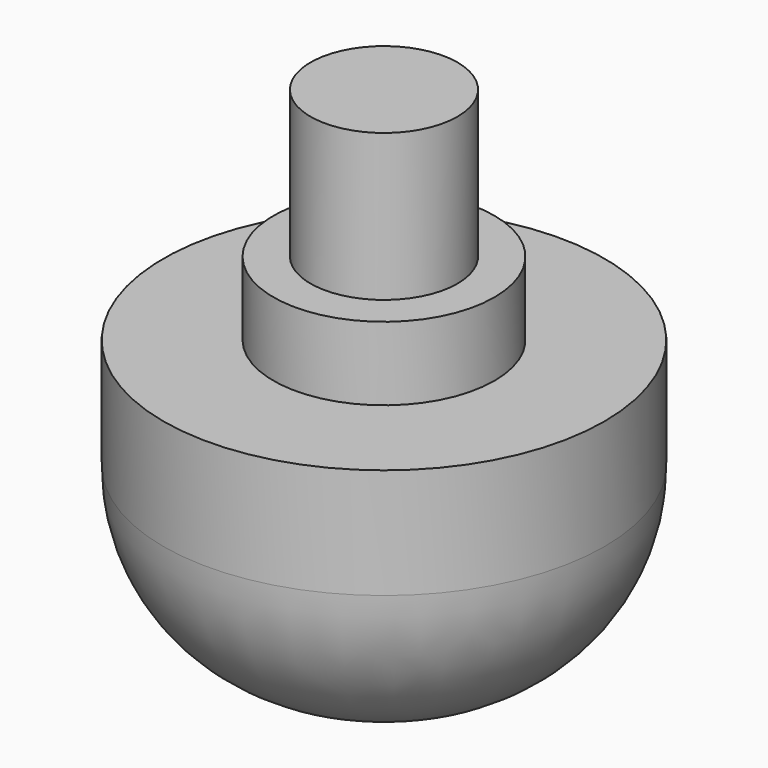
from build123d import *

# Parameters (mm, degrees)
F0_R     = 3.81
F1_DEPTH = 5.08
F2_R     = 3.175
F3_R     = 1.27
F4_DEPTH = 3.81
F5_R     = 1.909408
F6_DEPTH = 1.27


with BuildPart() as f1:
    # F0 (on Top) → F1 (new body)
    with BuildSketch(Plane.XY):
        Circle(F0_R)
    extrude(amount=F1_DEPTH)

    # F2
    f2_edges = [f1.edges().sort_by_distance(p)[0] for p in [
        (-3.81, 0, 0),
    ]]
    fillet(f2_edges, radius=F2_R)

    # F3 (on face) → F4 (join)
    with BuildSketch(Plane.XY.offset(5.08)):
        Circle(F3_R)
    extrude(amount=F4_DEPTH)

    # F5 (on face) → F6 (join)
    with BuildSketch(Plane.XY.offset(5.08)):
        Circle(F5_R)
    extrude(amount=F6_DEPTH)


solid = f1.part
